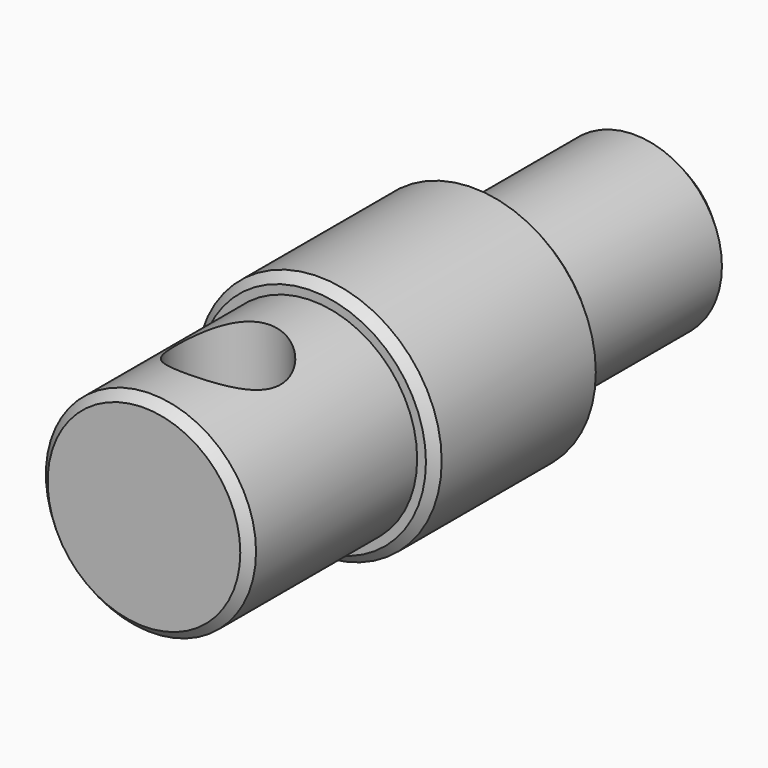
from build123d import *

# Parameters (mm, degrees)
F0_R          = 7
F0_R_2        = 6
F1_DEPTH      = 12
F0_R_3        = 5
F2_DEPTH      = 24
F3_DEPTH      = 24
F3_DEPTH_BACK = 12
F4_SIZE       = 1
F5_SIZE       = 0.5
F6_R          = 3
F7_DEPTH      = 25
F7_DEPTH_BACK = 25


with BuildPart() as f1:
    # F0 (on Front) → F1 (new body)
    with BuildSketch(Plane.XZ):
        Circle(F0_R)
        Circle(F0_R_2, mode=Mode.SUBTRACT)
    extrude(amount=F1_DEPTH)

    # F0 (on Front) → F2 (join)
    with BuildSketch(Plane.XZ):
        Circle(F0_R_2)
        Circle(F0_R_3, mode=Mode.SUBTRACT)
    extrude(amount=F2_DEPTH)

    # F0 (on Front) → F3 (join, two sides)
    with BuildSketch(Plane.XZ) as f3_sk:
        Circle(F0_R_3)
    extrude(amount=F3_DEPTH)
    extrude(f3_sk.sketch, amount=-F3_DEPTH_BACK)

    # F4
    f4_edges = [f1.edges().sort_by_distance(p)[0] for p in [
        (-5, 12, 0),
    ]]
    chamfer(f4_edges, length=F4_SIZE)

    # F5
    f5_edges = [f1.edges().sort_by_distance(p)[0] for p in [
        (-6, -24, 0),
        (-7, -12, 0),
        (7, -6, 0),
        (-7, 0, 0),
    ]]
    chamfer(f5_edges, length=F5_SIZE)

    # F6 (on Top) → F7 (cut, two sides)
    with BuildSketch(Plane.XY) as f7_sk:
        with Locations((0, -18)):
            Circle(F6_R)
    extrude(amount=-F7_DEPTH, mode=Mode.SUBTRACT)
    extrude(f7_sk.sketch, amount=F7_DEPTH_BACK, mode=Mode.SUBTRACT)


solid = f1.part
